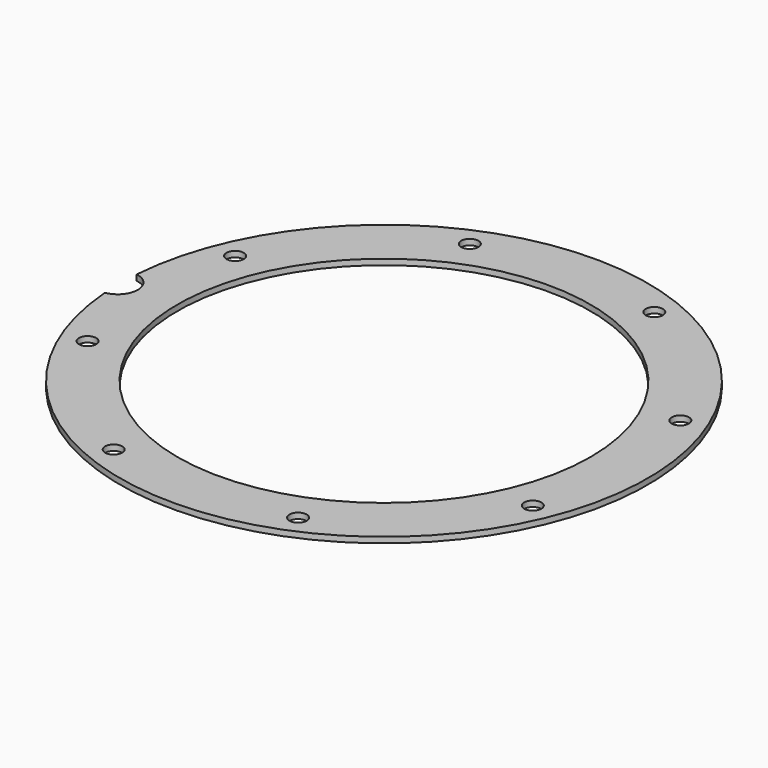
from build123d import *

# Parameters (mm, degrees)
BOX319_W                    = 6
BOX319_H                    = 8
BOX319_DEPTH                = 2
BOX319_PLACEMENT_ANGLE      = 45
BOX321_W                    = 6
BOX321_H                    = 8
BOX321_DEPTH                = 2
BOX312_W                    = 6
BOX312_H                    = 8
BOX312_DEPTH                = 2
BOX324_W                    = 6
BOX324_H                    = 8
BOX324_DEPTH                = 2
BOX324_PLACEMENT_ANGLE      = 135
BOX322_W                    = 6
BOX322_H                    = 8
BOX322_DEPTH                = 2
BOX326_W                    = 6
BOX326_H                    = 8
BOX326_DEPTH                = 2
BOX326_PLACEMENT_ANGLE      = 225
BOX315_W                    = 6
BOX315_H                    = 8
BOX315_DEPTH                = 2
BOX325_W                    = 6
BOX325_H                    = 8
BOX325_DEPTH                = 2
BOX325_PLACEMENT_ANGLE      = 45
COMPOUND700_PLACEMENT_ANGLE = 22.5
CYLINDER701_R               = 1.5
CYLINDER701_DEPTH           = 12
CYLINDER701_PLACEMENT_ANGLE = 45
CYLINDER709_R               = 1.5
CYLINDER709_DEPTH           = 12
CYLINDER707_R               = 1.5
CYLINDER707_DEPTH           = 12
CYLINDER707_PLACEMENT_ANGLE = 135
CYLINDER706_R               = 1.5
CYLINDER706_DEPTH           = 12
CYLINDER708_R               = 1.5
CYLINDER708_DEPTH           = 12
CYLINDER708_PLACEMENT_ANGLE = 225
CYLINDER705_R               = 1.5
CYLINDER705_DEPTH           = 12
CYLINDER700_R               = 1.5
CYLINDER700_DEPTH           = 12
CYLINDER700_PLACEMENT_ANGLE = 45
CYLINDER703_R               = 1.5
CYLINDER703_DEPTH           = 12
COMPOUND701_PLACEMENT_ANGLE = 22.5
CYLINDER698_R               = 3.5
CYLINDER698_DEPTH           = 20
TUBE076_R                   = 46
TUBE076_R_2                 = 36
TUBE076_DEPTH               = 1


with BuildPart() as krychle319:
    # Box319 → Box319 (new body)
    with BuildSketch(Plane.XY):
        with Locations((3, 4)):
            Rectangle(BOX319_W, BOX319_H)
    extrude(amount=BOX319_DEPTH)


with BuildPart() as krychle319_1:
    # Box319 placement: moved
    add(krychle319.part.moved(Location((30.405592, -34.648232, 33))).rotate(Axis((30.405592, -34.648232, 33), (0, 0, 1)), BOX319_PLACEMENT_ANGLE))


with BuildPart() as krychle321:
    # Box321 → Box321 (new body)
    with BuildSketch(Plane(origin=(46, -3, 33), x_dir=(0, 1, 0), z_dir=(0, 0, 1))):
        with Locations((3, 4)):
            Rectangle(BOX321_W, BOX321_H)
    extrude(amount=BOX321_DEPTH)


with BuildPart() as krychle312:
    # Box312 → Box312 (new body)
    with BuildSketch(Plane(origin=(-3, -46, 33), x_dir=(1, 0, 0), z_dir=(0, 0, 1))):
        with Locations((3, 4)):
            Rectangle(BOX312_W, BOX312_H)
    extrude(amount=BOX312_DEPTH)


with BuildPart() as krychle324:
    # Box324 → Box324 (new body)
    with BuildSketch(Plane.XY):
        with Locations((3, 4)):
            Rectangle(BOX324_W, BOX324_H)
    extrude(amount=BOX324_DEPTH)


with BuildPart() as krychle324_1:
    # Box324 placement: moved
    add(krychle324.part.moved(Location((34.648232, 30.405592, 33))).rotate(Axis((34.648232, 30.405592, 33), (0, 0, 1)), BOX324_PLACEMENT_ANGLE))


with BuildPart() as krychle322:
    # Box322 → Box322 (new body)
    with BuildSketch(Plane(origin=(3, 46, 33), x_dir=(-1, 0, 0), z_dir=(0, 0, 1))):
        with Locations((3, 4)):
            Rectangle(BOX322_W, BOX322_H)
    extrude(amount=BOX322_DEPTH)


with BuildPart() as krychle326:
    # Box326 → Box326 (new body)
    with BuildSketch(Plane.XY):
        with Locations((3, 4)):
            Rectangle(BOX326_W, BOX326_H)
    extrude(amount=BOX326_DEPTH)


with BuildPart() as krychle326_1:
    # Box326 placement: moved
    add(krychle326.part.moved(Location((-30.405592, 34.648232, 33))).rotate(Axis((-30.405592, 34.648232, 33), (0, 0, 1)), BOX326_PLACEMENT_ANGLE))


with BuildPart() as krychle315:
    # Box315 → Box315 (new body)
    with BuildSketch(Plane(origin=(-46, 3, 33), x_dir=(0, -1, 0), z_dir=(0, 0, 1))):
        with Locations((3, 4)):
            Rectangle(BOX315_W, BOX315_H)
    extrude(amount=BOX315_DEPTH)


with BuildPart() as compound700:
    # Box325 → Box325 (new body)
    with BuildSketch(Plane.XY):
        with Locations((3, 4)):
            Rectangle(BOX325_W, BOX325_H)
    extrude(amount=BOX325_DEPTH)


with BuildPart() as compound700_1:
    # Box325 placement: moved
    add(compound700.part.moved(Location((-34.648232, -30.405592, 33))).rotate(Axis((-34.648232, -30.405592, 33), (0, 0, -1)), BOX325_PLACEMENT_ANGLE))

    # Compound700: union Krychle319, Krychle321, Krychle312, Krychle324, Krychle322, Krychle326, Krychle315
    add(krychle319_1.part)
    add(krychle321.part)
    add(krychle312.part)
    add(krychle324_1.part)
    add(krychle322.part)
    add(krychle326_1.part)
    add(krychle315.part)


with BuildPart() as compound700_2:
    # Compound700 placement: moved
    add(compound700_1.part.moved(Location((0, 0, 7))).rotate(Axis((0, 0, 7), (0, 0, 1)), COMPOUND700_PLACEMENT_ANGLE))


with BuildPart() as obj1:
    # Cylinder701 → Cylinder701 (new body)
    with BuildSketch(Plane.XY):
        Circle(CYLINDER701_R)
    extrude(amount=CYLINDER701_DEPTH)


with BuildPart() as obj1_1:
    # Cylinder701 placement: moved
    add(obj1.part.moved(Location((29.698485, -29.698485, 33.5))).rotate(Axis((29.698485, -29.698485, 33.5), (0, 0, 1)), CYLINDER701_PLACEMENT_ANGLE))


with BuildPart() as obj2:
    # Cylinder709 → Cylinder709 (new body)
    with BuildSketch(Plane(origin=(42, 0, 33.5), x_dir=(0, 1, 0), z_dir=(0, 0, 1))):
        Circle(CYLINDER709_R)
    extrude(amount=CYLINDER709_DEPTH)


with BuildPart() as obj3:
    # Cylinder707 → Cylinder707 (new body)
    with BuildSketch(Plane.XY):
        Circle(CYLINDER707_R)
    extrude(amount=CYLINDER707_DEPTH)


with BuildPart() as obj3_1:
    # Cylinder707 placement: moved
    add(obj3.part.moved(Location((29.698485, 29.698485, 33.5))).rotate(Axis((29.698485, 29.698485, 33.5), (0, 0, 1)), CYLINDER707_PLACEMENT_ANGLE))


with BuildPart() as obj4:
    # Cylinder706 → Cylinder706 (new body)
    with BuildSketch(Plane(origin=(0, 42, 33.5), x_dir=(-1, 0, 0), z_dir=(0, 0, 1))):
        Circle(CYLINDER706_R)
    extrude(amount=CYLINDER706_DEPTH)


with BuildPart() as obj5:
    # Cylinder708 → Cylinder708 (new body)
    with BuildSketch(Plane.XY):
        Circle(CYLINDER708_R)
    extrude(amount=CYLINDER708_DEPTH)


with BuildPart() as obj5_1:
    # Cylinder708 placement: moved
    add(obj5.part.moved(Location((-29.698485, 29.698485, 33.5))).rotate(Axis((-29.698485, 29.698485, 33.5), (0, 0, 1)), CYLINDER708_PLACEMENT_ANGLE))


with BuildPart() as obj6:
    # Cylinder705 → Cylinder705 (new body)
    with BuildSketch(Plane(origin=(-42, 0, 33.5), x_dir=(0, -1, 0), z_dir=(0, 0, 1))):
        Circle(CYLINDER705_R)
    extrude(amount=CYLINDER705_DEPTH)


with BuildPart() as obj7:
    # Cylinder700 → Cylinder700 (new body)
    with BuildSketch(Plane.XY):
        Circle(CYLINDER700_R)
    extrude(amount=CYLINDER700_DEPTH)


with BuildPart() as obj7_1:
    # Cylinder700 placement: moved
    add(obj7.part.moved(Location((-29.698485, -29.698485, 33.5))).rotate(Axis((-29.698485, -29.698485, 33.5), (0, 0, -1)), CYLINDER700_PLACEMENT_ANGLE))


with BuildPart() as compound701:
    # Cylinder703 → Cylinder703 (new body)
    with BuildSketch(Plane(origin=(0, -42, 33.5), x_dir=(1, 0, 0), z_dir=(0, 0, 1))):
        Circle(CYLINDER703_R)
    extrude(amount=CYLINDER703_DEPTH)

    # Compound701: union obj1, obj2, obj3, obj4, obj5, obj6, obj7
    add(obj1_1.part)
    add(obj2.part)
    add(obj3_1.part)
    add(obj4.part)
    add(obj5_1.part)
    add(obj6.part)
    add(obj7_1.part)


with BuildPart() as compound701_1:
    # Compound701 placement: moved
    add(compound701.part.moved(Location((0, 0, 4))).rotate(Axis((0, 0, 4), (0, 0, 1)), COMPOUND701_PLACEMENT_ANGLE))


with BuildPart() as obj8:
    # Cylinder698 → Cylinder698 (new body)
    with BuildSketch(Plane(origin=(-46.4, 0, 34), x_dir=(1, 0, 0), z_dir=(0, 0, 1))):
        Circle(CYLINDER698_R)
    extrude(amount=CYLINDER698_DEPTH)


with BuildPart() as cut321:
    # Tube076 → Tube076 (new body)
    with BuildSketch(Plane.XY.offset(45)):
        Circle(TUBE076_R)
        Circle(TUBE076_R_2, mode=Mode.SUBTRACT)
    extrude(amount=TUBE076_DEPTH)

    # Cut323: cut obj8
    add(obj8.part, mode=Mode.SUBTRACT)

    # Cut330: cut Compound701
    add(compound701_1.part, mode=Mode.SUBTRACT)

    # Cut321: cut Compound700
    add(compound700_2.part, mode=Mode.SUBTRACT)


solid = cut321.part
